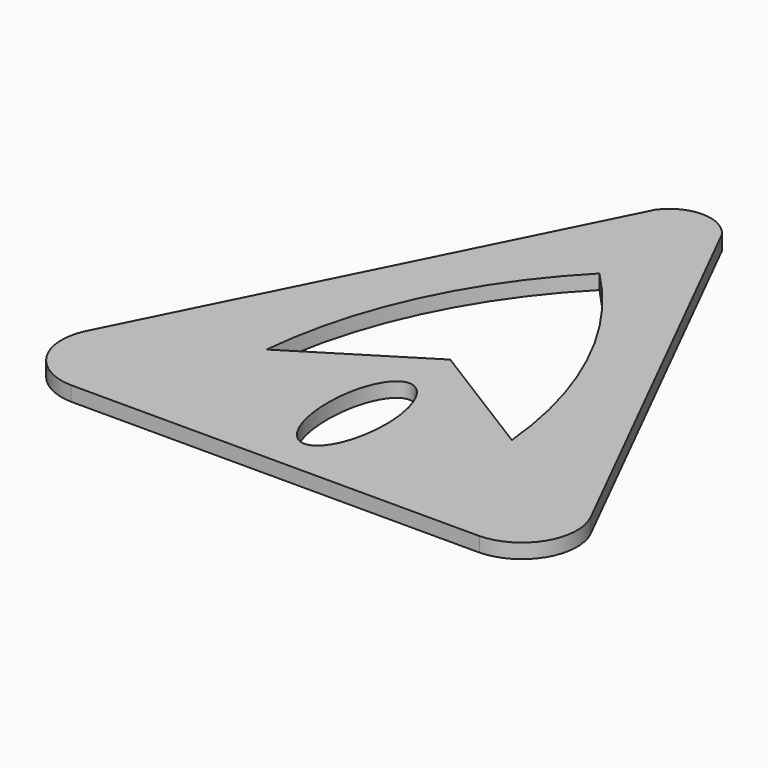
from build123d import *

# Parameters (mm, degrees)
F1_DEPTH = 0.5


with BuildPart() as f1:
    # F0 (on Top) → F1 (new body)
    with BuildSketch(Plane.XY):
        with BuildLine():
            Line((8.658359, 2.683282), (1.341641, 17.316718))
            Line((1.341641, 17.316718), (1.143914, 17.712172))
            ThreePointArc((1.143914, 17.712172), (0, 18.3), (-1.143914, 17.712172))
            Line((-1.143914, 17.712172), (-1.341641, 17.316718))
            Line((-1.341641, 17.316718), (-8.658359, 2.683282))
            ThreePointArc((-8.658359, 2.683282), (-8.553894, 0.893743), (-7, 0))
            Line((-7, 0), (7, 0))
            ThreePointArc((7, 0), (8.553894, 0.893743), (8.658359, 2.683282))
        make_face()
        with BuildLine():
            add(Edge.make_bspline(
                [(0, 5.75), (-1.732051, 5.75), (-0.866025, 2.375), (0, -1), (0.866025, 2.375), (1.732051, 5.75), (0, 5.75)],
                knots=[0, 0, 0, 2.094395, 2.094395, 4.18879, 4.18879, 6.283185, 6.283185, 6.283185], degree=2, weights=[1, 0.5, 1, 0.5, 1, 0.5, 1]))
        make_face(mode=Mode.SUBTRACT)
        with BuildLine():
            ThreePointArc((0, 13.893057), (2.881392, 9.752982), (4.203293, 4.885209))
            Line((4.203293, 4.885209), (0, 7.5))
            Line((0, 7.5), (-4.203293, 4.885209))
            ThreePointArc((-4.203293, 4.885209), (-2.881392, 9.752982), (0, 13.893057))
        make_face(mode=Mode.SUBTRACT)
    extrude(amount=F1_DEPTH)


solid = f1.part
